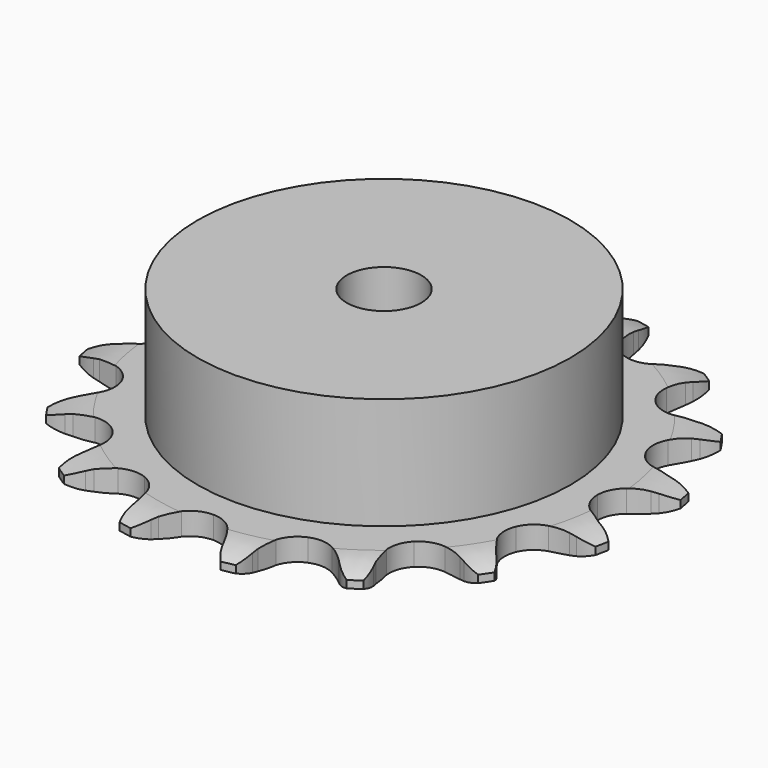
from build123d import *

# Parameters (mm, degrees)
PAD_DEPTH         = 3
SKETCH001_R       = 25
PAD001_DEPTH      = 18
SKETCH002_R       = 5
POCKET_DEPTH      = 0.001
POCKET_DEPTH_BACK = -18.001


with BuildPart() as part:
    # Sprocket → Pad (new body)
    with BuildSketch(Plane.XY):
        with BuildLine():
            ThreePointArc((-7.127283, 35.831271), (-5.749946, 34.624109), (-4.76799, 33.078129))
            Line((-4.76799, 33.078129), (-4.403122, 32.268153))
            ThreePointArc((-4.403122, 32.268153), (-3.804071, 31.135548), (-3.066876, 30.087598))
            ThreePointArc((-3.066876, 30.087598), (-1.700714, 29.003334), (0, 28.616551))
            ThreePointArc((0, 28.616551), (1.700714, 29.003334), (3.066876, 30.087598))
            ThreePointArc((3.066876, 30.087598), (3.804071, 31.135548), (4.403122, 32.268153))
            Line((4.403122, 32.268153), (4.76799, 33.078129))
            ThreePointArc((4.76799, 33.078129), (5.749946, 34.624109), (7.127283, 35.831271))
            ThreePointArc((7.127283, 35.831271), (7.937815, 34.188915), (8.253404, 32.384837))
            Line((8.253404, 32.384837), (8.280533, 31.496888))
            ThreePointArc((8.280533, 31.496888), (8.400555, 30.221251), (8.680601, 28.970958))
            ThreePointArc((8.680601, 28.970958), (9.527841, 27.446422), (10.95108, 26.438246))
            ThreePointArc((10.95108, 26.438246), (12.67035, 26.144752), (14.347449, 26.623673))
            Line((14.347449, 26.623673), (16.416442, 28.126884))
            ThreePointArc((16.416442, 28.126884), (16.733297, 28.438325), (17.0635, 28.735575))
            ThreePointArc((17.0635, 28.735575), (18.562331, 29.788097), (20.296785, 30.376285))
            ThreePointArc((20.296785, 30.376285), (20.417116, 28.548769), (20.018291, 26.761247))
            Line((20.018291, 26.761247), (19.703552, 25.930508))
            ThreePointArc((19.703552, 25.930508), (19.326273, 24.706042), (19.106535, 23.443753))
            ThreePointArc((19.106535, 23.443753), (19.305868, 21.71104), (20.234957, 20.234957))
            ThreePointArc((20.234957, 20.234957), (21.71104, 19.305868), (23.443753, 19.106535))
            Line((23.443753, 19.106535), (25.930508, 19.703552))
            ThreePointArc((25.930508, 19.703552), (26.342426, 19.870031), (26.761247, 20.018291))
            ThreePointArc((26.761247, 20.018291), (28.548769, 20.417116), (30.376285, 20.296785))
            ThreePointArc((30.376285, 20.296785), (29.788097, 18.562331), (28.735575, 17.0635))
            Line((28.735575, 17.0635), (28.126884, 16.416442))
            ThreePointArc((28.126884, 16.416442), (27.309741, 15.429562), (26.623673, 14.347449))
            ThreePointArc((26.623673, 14.347449), (26.144752, 12.67035), (26.438246, 10.95108))
            ThreePointArc((26.438246, 10.95108), (27.446422, 9.527841), (28.970958, 8.680601))
            Line((28.970958, 8.680601), (31.496888, 8.280533))
            ThreePointArc((31.496888, 8.280533), (31.94116, 8.276704), (32.384837, 8.253404))
            ThreePointArc((32.384837, 8.253404), (34.188915, 7.937815), (35.831271, 7.127283))
            ThreePointArc((35.831271, 7.127283), (34.624109, 5.749946), (33.078129, 4.76799))
            Line((33.078129, 4.76799), (32.268153, 4.403122))
            ThreePointArc((32.268153, 4.403122), (31.135548, 3.804071), (30.087598, 3.066876))
            ThreePointArc((30.087598, 3.066876), (29.003334, 1.700714), (28.616551, 0))
            ThreePointArc((28.616551, 0), (29.003334, -1.700714), (30.087598, -3.066876))
            Line((30.087598, -3.066876), (32.268153, -4.403122))
            ThreePointArc((32.268153, -4.403122), (32.677142, -4.576675), (33.078129, -4.76799))
            ThreePointArc((33.078129, -4.76799), (34.624109, -5.749946), (35.831271, -7.127283))
            ThreePointArc((35.831271, -7.127283), (34.188915, -7.937815), (32.384837, -8.253404))
            Line((32.384837, -8.253404), (31.496888, -8.280533))
            ThreePointArc((31.496888, -8.280533), (30.221251, -8.400555), (28.970958, -8.680601))
            ThreePointArc((28.970958, -8.680601), (27.446422, -9.527841), (26.438246, -10.95108))
            ThreePointArc((26.438246, -10.95108), (26.144752, -12.67035), (26.623673, -14.347449))
            Line((26.623673, -14.347449), (28.126884, -16.416442))
            ThreePointArc((28.126884, -16.416442), (28.438325, -16.733297), (28.735575, -17.0635))
            ThreePointArc((28.735575, -17.0635), (29.788097, -18.562331), (30.376285, -20.296785))
            ThreePointArc((30.376285, -20.296785), (28.548769, -20.417116), (26.761247, -20.018291))
            Line((26.761247, -20.018291), (25.930508, -19.703552))
            ThreePointArc((25.930508, -19.703552), (24.706042, -19.326273), (23.443753, -19.106535))
            ThreePointArc((23.443753, -19.106535), (21.71104, -19.305868), (20.234957, -20.234957))
            ThreePointArc((20.234957, -20.234957), (19.305868, -21.71104), (19.106535, -23.443753))
            Line((19.106535, -23.443753), (19.703552, -25.930508))
            ThreePointArc((19.703552, -25.930508), (19.870031, -26.342426), (20.018291, -26.761247))
            ThreePointArc((20.018291, -26.761247), (20.417116, -28.548769), (20.296785, -30.376285))
            ThreePointArc((20.296785, -30.376285), (18.562331, -29.788097), (17.0635, -28.735575))
            Line((17.0635, -28.735575), (16.416442, -28.126884))
            ThreePointArc((16.416442, -28.126884), (15.429562, -27.309741), (14.347449, -26.623673))
            ThreePointArc((14.347449, -26.623673), (12.67035, -26.144752), (10.95108, -26.438246))
            ThreePointArc((10.95108, -26.438246), (9.527841, -27.446422), (8.680601, -28.970958))
            Line((8.680601, -28.970958), (8.280533, -31.496888))
            ThreePointArc((8.280533, -31.496888), (8.276704, -31.94116), (8.253404, -32.384837))
            ThreePointArc((8.253404, -32.384837), (7.937815, -34.188915), (7.127283, -35.831271))
            ThreePointArc((7.127283, -35.831271), (5.749946, -34.624109), (4.76799, -33.078129))
            Line((4.76799, -33.078129), (4.403122, -32.268153))
            ThreePointArc((4.403122, -32.268153), (3.804071, -31.135548), (3.066876, -30.087598))
            ThreePointArc((3.066876, -30.087598), (1.700714, -29.003334), (0, -28.616551))
            ThreePointArc((0, -28.616551), (-1.700714, -29.003334), (-3.066876, -30.087598))
            Line((-3.066876, -30.087598), (-4.403122, -32.268153))
            ThreePointArc((-4.403122, -32.268153), (-4.576675, -32.677142), (-4.76799, -33.078129))
            ThreePointArc((-4.76799, -33.078129), (-5.749946, -34.624109), (-7.127283, -35.831271))
            ThreePointArc((-7.127283, -35.831271), (-7.937815, -34.188915), (-8.253404, -32.384837))
            Line((-8.253404, -32.384837), (-8.280533, -31.496888))
            ThreePointArc((-8.280533, -31.496888), (-8.400555, -30.221251), (-8.680601, -28.970958))
            ThreePointArc((-8.680601, -28.970958), (-9.527841, -27.446422), (-10.95108, -26.438246))
            ThreePointArc((-10.95108, -26.438246), (-12.67035, -26.144752), (-14.347449, -26.623673))
            Line((-14.347449, -26.623673), (-16.416442, -28.126884))
            ThreePointArc((-16.416442, -28.126884), (-16.733297, -28.438325), (-17.0635, -28.735575))
            ThreePointArc((-17.0635, -28.735575), (-18.562331, -29.788097), (-20.296785, -30.376285))
            ThreePointArc((-20.296785, -30.376285), (-20.417116, -28.548769), (-20.018291, -26.761247))
            Line((-20.018291, -26.761247), (-19.703552, -25.930508))
            ThreePointArc((-19.703552, -25.930508), (-19.326273, -24.706042), (-19.106535, -23.443753))
            ThreePointArc((-19.106535, -23.443753), (-19.305868, -21.71104), (-20.234957, -20.234957))
            ThreePointArc((-20.234957, -20.234957), (-21.71104, -19.305868), (-23.443753, -19.106535))
            Line((-23.443753, -19.106535), (-25.930508, -19.703552))
            ThreePointArc((-25.930508, -19.703552), (-26.342426, -19.870031), (-26.761247, -20.018291))
            ThreePointArc((-26.761247, -20.018291), (-28.548769, -20.417116), (-30.376285, -20.296785))
            ThreePointArc((-30.376285, -20.296785), (-29.788097, -18.562331), (-28.735575, -17.0635))
            Line((-28.735575, -17.0635), (-28.126884, -16.416442))
            ThreePointArc((-28.126884, -16.416442), (-27.309741, -15.429562), (-26.623673, -14.347449))
            ThreePointArc((-26.623673, -14.347449), (-26.144752, -12.67035), (-26.438246, -10.95108))
            ThreePointArc((-26.438246, -10.95108), (-27.446422, -9.527841), (-28.970958, -8.680601))
            Line((-28.970958, -8.680601), (-31.496888, -8.280533))
            ThreePointArc((-31.496888, -8.280533), (-31.94116, -8.276704), (-32.384837, -8.253404))
            ThreePointArc((-32.384837, -8.253404), (-34.188915, -7.937815), (-35.831271, -7.127283))
            ThreePointArc((-35.831271, -7.127283), (-34.624109, -5.749946), (-33.078129, -4.76799))
            Line((-33.078129, -4.76799), (-32.268153, -4.403122))
            ThreePointArc((-32.268153, -4.403122), (-31.135548, -3.804071), (-30.087598, -3.066876))
            ThreePointArc((-30.087598, -3.066876), (-29.003334, -1.700714), (-28.616551, 0))
            ThreePointArc((-28.616551, 0), (-29.003334, 1.700714), (-30.087598, 3.066876))
            Line((-30.087598, 3.066876), (-32.268153, 4.403122))
            ThreePointArc((-32.268153, 4.403122), (-32.677142, 4.576675), (-33.078129, 4.76799))
            ThreePointArc((-33.078129, 4.76799), (-34.624109, 5.749946), (-35.831271, 7.127283))
            ThreePointArc((-35.831271, 7.127283), (-34.188915, 7.937815), (-32.384837, 8.253404))
            Line((-32.384837, 8.253404), (-31.496888, 8.280533))
            ThreePointArc((-31.496888, 8.280533), (-30.221251, 8.400555), (-28.970958, 8.680601))
            ThreePointArc((-28.970958, 8.680601), (-27.446422, 9.527841), (-26.438246, 10.95108))
            ThreePointArc((-26.438246, 10.95108), (-26.144752, 12.67035), (-26.623673, 14.347449))
            Line((-26.623673, 14.347449), (-28.126884, 16.416442))
            ThreePointArc((-28.126884, 16.416442), (-28.438325, 16.733297), (-28.735575, 17.0635))
            ThreePointArc((-28.735575, 17.0635), (-29.788097, 18.562331), (-30.376285, 20.296785))
            ThreePointArc((-30.376285, 20.296785), (-28.548769, 20.417116), (-26.761247, 20.018291))
            Line((-26.761247, 20.018291), (-25.930508, 19.703552))
            ThreePointArc((-25.930508, 19.703552), (-24.706042, 19.326273), (-23.443753, 19.106535))
            ThreePointArc((-23.443753, 19.106535), (-21.71104, 19.305868), (-20.234957, 20.234957))
            ThreePointArc((-20.234957, 20.234957), (-19.305868, 21.71104), (-19.106535, 23.443753))
            Line((-19.106535, 23.443753), (-19.703552, 25.930508))
            ThreePointArc((-19.703552, 25.930508), (-19.870031, 26.342426), (-20.018291, 26.761247))
            ThreePointArc((-20.018291, 26.761247), (-20.417116, 28.548769), (-20.296785, 30.376285))
            ThreePointArc((-20.296785, 30.376285), (-18.562331, 29.788097), (-17.0635, 28.735575))
            Line((-17.0635, 28.735575), (-16.416442, 28.126884))
            ThreePointArc((-16.416442, 28.126884), (-15.429562, 27.309741), (-14.347449, 26.623673))
            ThreePointArc((-14.347449, 26.623673), (-12.67035, 26.144752), (-10.95108, 26.438246))
            ThreePointArc((-10.95108, 26.438246), (-9.527841, 27.446422), (-8.680601, 28.970958))
            Line((-8.680601, 28.970958), (-8.280533, 31.496888))
            ThreePointArc((-8.280533, 31.496888), (-8.276704, 31.94116), (-8.253404, 32.384837))
            ThreePointArc((-8.253404, 32.384837), (-7.937815, 34.188915), (-7.127283, 35.831271))
        make_face()
    extrude(amount=PAD_DEPTH)

    # Sketch → Groove (revolve, cut)
    with BuildSketch(Plane.XZ):
        with BuildLine():
            Line((30.45, 0), (35.45, 0))
            Line((40.45, 0), (35.45, 0))
            Line((40.45, 3), (40.45, 0))
            Line((35.45, 3), (40.45, 3))
            Line((30.45, 3), (35.45, 3))
            ThreePointArc((35.45, 2), (32.99951, 2.747549), (30.45, 3))
            Line((35.45, 1), (35.45, 2))
            ThreePointArc((30.45, 0), (32.99951, 0.252451), (35.45, 1))
        make_face()
    revolve(axis=Axis((0, 0, 0), (0, 0, 1)), mode=Mode.SUBTRACT)

    # Sketch001 → Pad001 (join)
    with BuildSketch(Plane.XY):
        Circle(SKETCH001_R)
    extrude(amount=PAD001_DEPTH)

    # Sketch002 → Pocket (cut, two sides)
    with BuildSketch(Plane.XY) as pocket_sk:
        Circle(SKETCH002_R)
    extrude(amount=-POCKET_DEPTH, mode=Mode.SUBTRACT)
    extrude(pocket_sk.sketch, amount=-POCKET_DEPTH_BACK, mode=Mode.SUBTRACT)


solid = part.part
